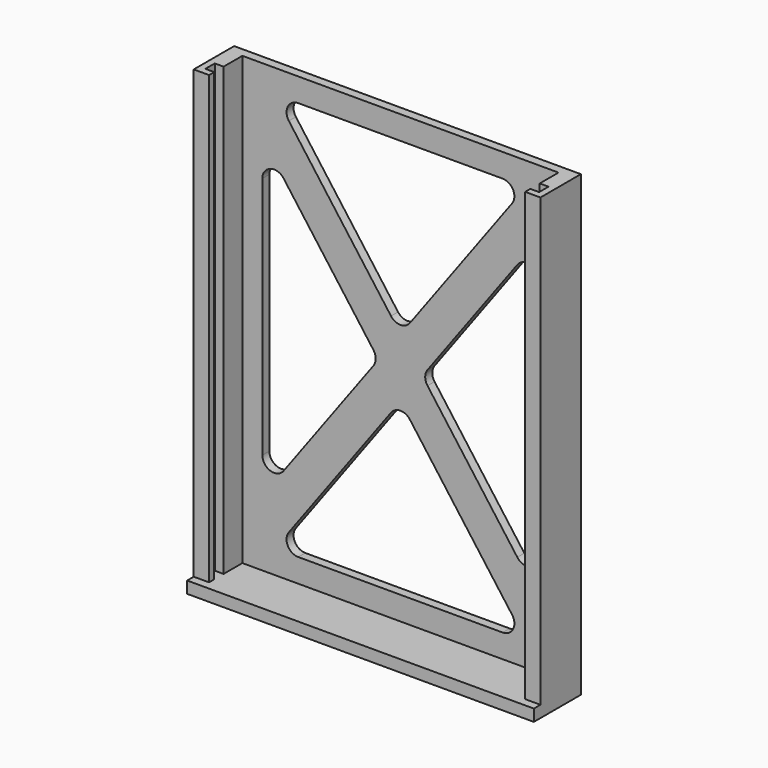
from build123d import *

# Parameters (mm, degrees)
PAD002_DEPTH = 10
PAD001_DEPTH = 78
SKETCH_W     = 59
SKETCH_H     = 10
PAD_DEPTH    = 2
FILLET_R     = 2


with BuildPart() as pad002:
    # Sketch002 → Pad002 (new body)
    with BuildSketch(Plane.XZ):
        Polygon((8.152621, 6), (29.5, 34.945599), (50.847379, 6), align=None)
        Polygon((6, 13.189994), (25.772379, 40), (6, 66.810006), align=None)
        Polygon((8.152621, 74), (29.5, 45.054401), (50.847379, 74), align=None)
        Polygon((33.227621, 40), (53, 13.189994), (53, 66.810006), align=None)
    extrude(amount=PAD002_DEPTH)


with BuildPart() as pad001:
    # Sketch001 → Pad001 (new body)
    with BuildSketch(Plane.XY):
        Polygon((0, 0), (0, -8.6), (2.6, -8.6), (2.6, -7.5), (1.1, -7.5), (1.1, -5.5), (2.6, -5.5), (2.6, -1.5), (56.4, -1.5), (56.4, -5.5), (57.9, -5.5), (57.9, -7.5), (56.4, -7.5), (56.4, -8.6), (59, -8.6), (59, 0), align=None)
    extrude(amount=PAD001_DEPTH)


with BuildPart() as f_4_relay:
    # Sketch → Pad (new body)
    with BuildSketch(Plane.XY):
        with Locations((29.5, -5)):
            Rectangle(SKETCH_W, SKETCH_H)
    extrude(amount=PAD_DEPTH)

    # Fusion: union Pad001
    add(pad001.part)

    # Cut: cut Pad002
    add(pad002.part, mode=Mode.SUBTRACT)

    # Fillet
    fillet_edges = [f_4_relay.edges().sort_by_distance(p)[0] for p in [
        (53, -0.75, 13.189994),
        (25.772379, -0.75, 40),
        (50.847379, -0.75, 6),
        (33.227621, -0.75, 40),
        (53, -0.75, 66.810006),
        (6, -0.75, 66.810006),
        (50.847379, -0.75, 74),
        (29.5, -0.75, 45.054401),
        (29.5, -0.75, 34.945599),
        (8.152621, -0.75, 74),
        (8.152621, -0.75, 6),
        (6, -0.75, 13.189994),
    ]]
    fillet(fillet_edges, radius=FILLET_R)


solid = f_4_relay.part
